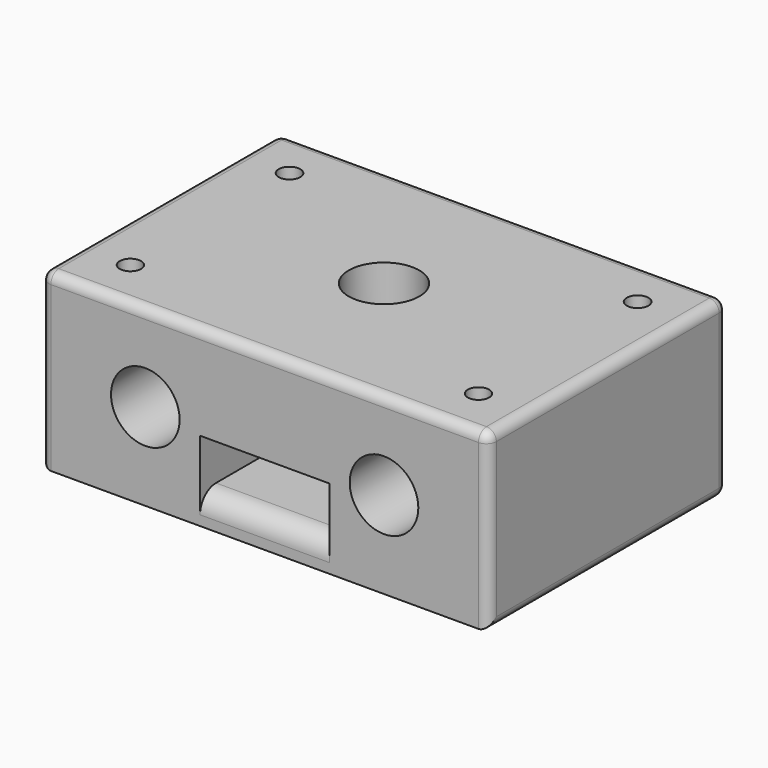
from build123d import *

# Parameters (mm, degrees)
SKETCH_W        = 45
SKETCH_H        = 17.5
SKETCH_R        = 3.45
SKETCH_W_2      = 13
SKETCH_H_2      = 5
PAD_DEPTH       = 30
SKETCH001_R     = 3.55
SKETCH001_R_2   = 1.075196
SKETCH001_R_3   = 1.087844
POCKET_DEPTH    = 131.18917
SKETCH002_W     = 13
SKETCH002_H     = 7.5
POCKET001_DEPTH = 5
FILLET_R        = 1
FILLET001_R     = 2


with BuildPart() as part:
    # Sketch → Pad (new body)
    with BuildSketch(Plane.XZ):
        Rectangle(SKETCH_W, SKETCH_H)
        with Locations((-12, 0)):
            Circle(SKETCH_R, mode=Mode.SUBTRACT)
        with Locations((12, 0)):
            Circle(SKETCH_R, mode=Mode.SUBTRACT)
        with Locations((0, -3.25)):
            Rectangle(SKETCH_W_2, SKETCH_H_2, mode=Mode.SUBTRACT)
    extrude(amount=PAD_DEPTH)

    # Sketch001 (on DatumPlane) → Pocket (cut, through all)
    with BuildSketch(Plane(origin=(0, 0, 8.75), x_dir=(-1, 0, 0), z_dir=(0, 0, 1))):
        with Locations((0, 15)):
            Circle(SKETCH001_R)
        with Locations((17.5, 25)):
            Circle(SKETCH001_R_2)
        with Locations((17.5, 5)):
            Circle(SKETCH001_R_3)
    pocket = extrude(amount=-POCKET_DEPTH, mode=Mode.SUBTRACT)

    # Mirrored: Pocket across Sketch001 V_Axis
    add(pocket.mirror(Plane(origin=(0, 0, 8.75), x_dir=(0, 0, 1), z_dir=(-1, 0, 0))), mode=Mode.SUBTRACT)

    # Sketch002 (on Face1 of Mirrored) → Pocket001 (cut)
    with BuildSketch(Plane(origin=(0, 0, -8.75), x_dir=(1, 0, 0), z_dir=(0, 0, -1))):
        with Locations((0, 15)):
            Rectangle(SKETCH002_W, SKETCH002_H)
    extrude(amount=-POCKET001_DEPTH, mode=Mode.SUBTRACT)

    # Fillet
    fillet_edges = [part.edges().sort_by_distance(p)[0] for p in [
        (-22.5, -15, 8.75),
        (-22.5, -15, -8.75),
        (-22.5, 0, 0),
        (-22.5, -30, 0),
        (22.5, -15, -8.75),
        (22.5, -15, 8.75),
        (22.5, 0, 0),
        (22.5, -30, 0),
        (0, 0, -8.75),
        (0, 0, 8.75),
        (0, 0, -5.75),
        (6.5, 0, -3.25),
        (0, 0, -0.75),
        (-6.5, 0, -3.25),
        (8.55, 0, 0),
        (-15.45, 0, 0),
        (0, -30, 8.75),
    ]]
    fillet(fillet_edges, radius=FILLET_R)

    # Fillet001
    fillet001_edges = [part.edges().sort_by_distance(p)[0] for p in [
        (0, -30, -5.75),
    ]]
    fillet(fillet001_edges, radius=FILLET001_R)


solid = part.part
